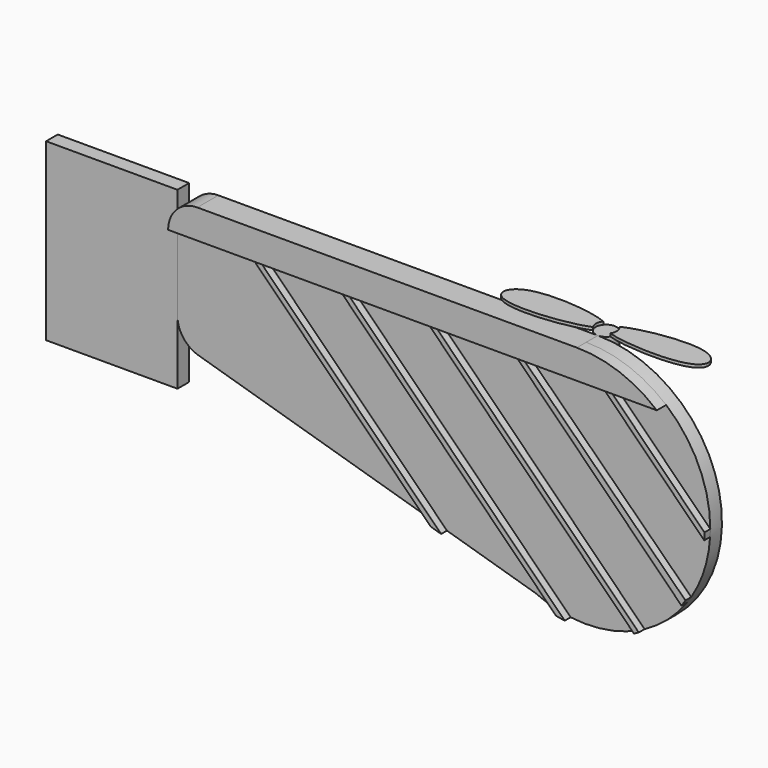
from build123d import *

# Parameters (mm, degrees)
F1_DEPTH  = 12.7
F3_DEPTH  = 10.16
F5_DEPTH  = 6.35
F7_W      = 114.3
F7_H      = 152.4
F8_DEPTH  = 12.7
F10_DEPTH = 19.558
F12_DEPTH = 2.54


with BuildPart() as f1:
    # F0 (on Front) → F1 (new body)
    with BuildSketch(Plane.XZ):
        with BuildLine():
            Line((0, 88.9), (0, 18.9734820172))
            ThreePointArc((0, 18.9734820172), (5.0506124764, 3.7727442912), (18.1938919224, -5.3828725206))
            Line((18.1938919224, -5.3828725206), (311.3668292683, -92.1214634146))
            ThreePointArc((311.3668292683, -92.1214634146), (461.1537705997, -16.2686651285), (355.6, 114.3))
            Line((355.6, 114.3), (25.4, 114.3))
            ThreePointArc((25.4, 114.3), (7.4394877579, 106.8605122421), (0, 88.9))
        make_face()
    extrude(amount=F1_DEPTH)

    # F2 (on face) → F3 (join)
    with BuildSketch(Plane.XZ.offset(12.7)):
        with BuildLine():
            ThreePointArc((25.4, 114.3), (7.4394877579, 106.8605122421), (0, 88.9))
            Line((0, 88.9), (425.1607648032, 88.9))
            ThreePointArc((425.1607648032, 88.9), (392.6265445323, 107.751368334), (355.6, 114.3))
            Line((355.6, 114.3), (25.4, 114.3))
        make_face()
    extrude(amount=F3_DEPTH)

    # F4 (on face) → F5 (join)
    with BuildSketch(Plane.XZ.offset(12.7)):
        Polygon((76.2, 88.9), (69.85, 88.9), (225.4528115287, -66.7028115287), (234.4709239898, -69.3709239898), align=None)
        with BuildLine():
            Line((152.4, 88.9), (146.05, 88.9))
            Line((146.05, 88.9), (334.4597834036, -99.5097834036))
            ThreePointArc((334.4597834036, -99.5097834036), (338.2417242974, -100.1952615776), (342.0456705639, -100.7456705639))
            Line((342.0456705639, -100.7456705639), (152.4, 88.9))
        make_face()
        with BuildLine():
            Line((228.6, 88.9), (222.25, 88.9))
            Line((222.25, 88.9), (402.1822287096, -91.0322287096))
            ThreePointArc((402.1822287096, -91.0322287096), (404.3027844885, -89.9891990992), (406.4, -88.9))
            Line((406.4, -88.9), (228.6, 88.9))
        make_face()
        with BuildLine():
            Line((304.8, 88.9), (298.45, 88.9))
            Line((298.45, 88.9), (443.5682619037, -56.2182619037))
            ThreePointArc((443.5682619037, -56.2182619037), (445.3168028606, -53.6841384919), (446.992364613, -51.1011809317))
            Line((446.992364613, -51.1011809317), (304.8, 88.9))
        make_face()
        with BuildLine():
            Line((381, 88.9), (374.65, 88.9))
            Line((374.65, 88.9), (463.3733380626, 0.1766619374))
            ThreePointArc((463.3733380626, 0.1766619374), (463.5058254773, 3.2620673471), (463.55, 6.35))
            Line((463.55, 6.35), (381, 88.9))
        make_face()
    extrude(amount=F5_DEPTH)


with BuildPart() as f6_1:
    # F6: copy of F1
    add(f1.part)


with BuildPart() as f8:
    # F7 (on Front) → F8 (new body)
    with BuildSketch(Plane.XZ):
        with Locations((-57.15, 39.256558827)):
            Rectangle(F7_W, F7_H)
    extrude(amount=F8_DEPTH)


with BuildPart() as f10:
    # F9 (on face) → F10 (new body)
    with BuildSketch(Plane.XY.offset(114.3)):
        with BuildLine():
            ThreePointArc((355.6, 0), (361.9986077821, 2.6286273124), (364.6520126703, 9.017))
            ThreePointArc((364.6520126703, 9.017), (349.2712821314, 15.4053726876), (355.6, 0))
        make_face()
    extrude(amount=-F10_DEPTH)


with BuildPart() as f12:
    # F11 (on face) → F12 (new body)
    with BuildSketch(Plane.XY.offset(114.3)):
        with BuildLine():
            ThreePointArc((348.2251800489, 3.8786253386), (346.622671366, 9.3109980862), (348.5758255009, 14.6273781208))
            add(Edge.make_bspline(
                [(348.5758255009, 14.6273781208), (333.7506038793, 21.1517493594), (270.9520035317, 27.6914675027), (260.6769274078, -11.4962183265), (331.5914142772, -3.4229552317), (348.2251800489, 3.8786253386)],
                knots=[0.0838313697, 0.0838313697, 0.0838313697, 0.0838313697, 0.3950885555, 0.5920415042, 0.9255762047, 0.9255762047, 0.9255762047, 0.9255762047], degree=3))
        make_face()
    extrude(amount=F12_DEPTH)


with BuildPart() as f12b:
    # F11 (on face) → F12, piece 2 (new body)
    with BuildSketch(Plane.XY.offset(114.3)):
        with BuildLine():
            add(Edge.make_bspline(
                [(361.9597990349, 15.4437978839), (376.8530125321, 22.7948947819), (437.8377662884, 33.1105007202), (450.5791405277, -4.7895022289), (380.8634237812, -1.8662068669), (363.1599937949, 4.0489873054)],
                knots=[0.0891984667, 0.0891984667, 0.0891984667, 0.0891984667, 0.3950885555, 0.5920415042, 0.9199736264, 0.9199736264, 0.9199736264, 0.9199736264], degree=3))
            ThreePointArc((361.9597990349, 15.4437978839), (363.9517697009, 12.5009541221), (364.6520126703, 9.017))
            ThreePointArc((364.6520126703, 9.017), (364.2709563356, 6.4233890781), (363.1599937949, 4.0489873054))
        make_face()
    extrude(amount=F12_DEPTH)


solid = Compound([f1.part, f6_1.part, f8.part, f10.part, f12.part, f12b.part])
